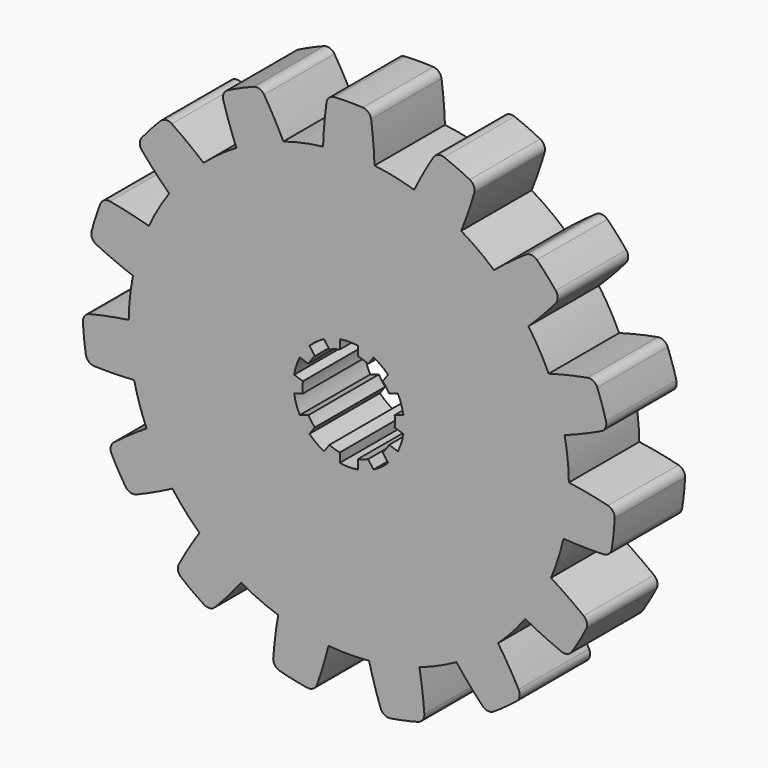
from build123d import *

# Parameters (mm, degrees)
F1_DEPTH = 20
F3_DEPTH = 20
F4_R     = 2


with BuildPart() as f1:
    # F0 (on Front) → F1 (new body)
    with BuildSketch(Plane.XZ):
        with BuildLine():
            ThreePointArc((48.774276, -11.003181), (49.692624, -5.535621), (50, 0))
            ThreePointArc((50, 0), (49.999033, 0.311003), (49.996131, 0.621993))
            ThreePointArc((49.996131, 0.621993), (49.726095, 5.226423), (49.032915, 9.786379))
            ThreePointArc((49.032915, 9.786379), (47.552826, 15.45085), (45.420751, 20.903478))
            ThreePointArc((45.420751, 20.903478), (43.30127, 25), (40.813318, 28.883785))
            ThreePointArc((40.813318, 28.883785), (37.157241, 33.45653), (32.991711, 37.570561))
            ThreePointArc((32.991711, 37.570561), (29.389263, 40.45085), (25.536727, 42.986923))
            ThreePointArc((25.536727, 42.986923), (20.336832, 45.677273), (14.858104, 47.741353))
            ThreePointArc((14.858104, 47.741353), (10.395585, 48.90738), (5.844605, 49.657231))
            ThreePointArc((5.844605, 49.657231), (0, 50), (-5.844605, 49.657231))
            ThreePointArc((-5.844605, 49.657231), (-10.395585, 48.90738), (-14.858104, 47.741353))
            ThreePointArc((-14.858104, 47.741353), (-20.336832, 45.677273), (-25.536727, 42.986923))
            ThreePointArc((-25.536727, 42.986923), (-29.389263, 40.45085), (-32.991711, 37.570561))
            ThreePointArc((-32.991711, 37.570561), (-37.157241, 33.45653), (-40.813318, 28.883785))
            ThreePointArc((-40.813318, 28.883785), (-43.30127, 25), (-45.420751, 20.903478))
            ThreePointArc((-45.420751, 20.903478), (-47.552826, 15.45085), (-49.032915, 9.786379))
            ThreePointArc((-49.032915, 9.786379), (-49.726095, 5.226423), (-49.996131, 0.621993))
            ThreePointArc((-49.996131, 0.621993), (-49.726095, -5.226423), (-48.774276, -11.003181))
            ThreePointArc((-48.774276, -11.003181), (-47.552826, -15.45085), (-45.926726, -19.767039))
            ThreePointArc((-45.926726, -19.767039), (-43.30127, -25), (-40.082121, -29.890192))
            ThreePointArc((-40.082121, -29.890192), (-37.157241, -33.45653), (-33.916173, -36.738171))
            ThreePointArc((-33.916173, -36.738171), (-29.389263, -40.45085), (-24.459404, -43.608916))
            ThreePointArc((-24.459404, -43.608916), (-20.336832, -45.677273), (-16.041205, -47.35694))
            ThreePointArc((-16.041205, -47.35694), (-10.395585, -48.90738), (-4.607433, -49.787263))
            ThreePointArc((-4.607433, -49.787263), (0, -50), (4.607433, -49.787263))
            ThreePointArc((4.607433, -49.787263), (10.395585, -48.90738), (16.041205, -47.35694))
            ThreePointArc((16.041205, -47.35694), (20.336832, -45.677273), (24.459404, -43.608916))
            ThreePointArc((24.459404, -43.608916), (29.389263, -40.45085), (33.916173, -36.738171))
            ThreePointArc((33.916173, -36.738171), (37.157241, -33.45653), (40.082121, -29.890192))
            ThreePointArc((40.082121, -29.890192), (43.30127, -25), (45.926726, -19.767039))
            ThreePointArc((45.926726, -19.767039), (47.552826, -15.45085), (48.774276, -11.003181))
        make_face()
        with BuildLine():
            ThreePointArc((-25.536727, 42.986923), (-20.336832, 45.677273), (-14.858104, 47.741353))
            ThreePointArc((-14.858104, 47.741353), (-17.342451, 52.471091), (-20.10306, 57.045088))
            ThreePointArc((-20.10306, 57.045088), (-24.600927, 55.254588), (-28.94119, 53.110099))
            ThreePointArc((-28.94119, 53.110099), (-27.389256, 47.997966), (-25.536727, 42.986923))
        make_face()
        with BuildLine():
            ThreePointArc((-5.844605, 49.657231), (0, 50), (5.844605, 49.657231))
            ThreePointArc((5.844605, 49.657231), (5.498799, 54.988537), (4.837269, 60.289932))
            ThreePointArc((4.837269, 60.289932), (0, 60.483676), (-4.837269, 60.289932))
            ThreePointArc((-4.837269, 60.289932), (-5.498799, 54.988537), (-5.844605, 49.657231))
        make_face()
        with BuildLine():
            ThreePointArc((14.858104, 47.741353), (20.336832, 45.677273), (25.536727, 42.986923))
            ThreePointArc((25.536727, 42.986923), (27.389256, 47.997966), (28.94119, 53.110099))
            ThreePointArc((28.94119, 53.110099), (24.600927, 55.254588), (20.10306, 57.045088))
            ThreePointArc((20.10306, 57.045088), (17.342451, 52.471091), (14.858104, 47.741353))
        make_face()
        with BuildLine():
            ThreePointArc((32.991711, 37.570561), (37.157241, 33.45653), (40.813318, 28.883785))
            ThreePointArc((40.813318, 28.883785), (44.543862, 32.70811), (48.040916, 36.747048))
            ThreePointArc((48.040916, 36.747048), (44.948131, 40.471479), (41.567387, 43.93663))
            ThreePointArc((41.567387, 43.93663), (37.185032, 40.880917), (32.991711, 37.570561))
        make_face()
        with BuildLine():
            ThreePointArc((45.420751, 20.903478), (47.552826, 15.45085), (49.032915, 9.786379))
            ThreePointArc((49.032915, 9.786379), (53.996429, 11.762724), (58.833931, 14.030098))
            ThreePointArc((58.833931, 14.030098), (57.523394, 18.690484), (55.844335, 23.23113))
            ThreePointArc((55.844335, 23.23113), (50.597985, 22.222061), (45.420751, 20.903478))
        make_face()
        with BuildLine():
            ThreePointArc((49.996131, 0.621993), (49.999033, 0.311003), (50, 0))
            ThreePointArc((50, 0), (49.692624, -5.535621), (48.774276, -11.003181))
            ThreePointArc((48.774276, -11.003181), (54.112523, -11.216543), (59.454025, -11.112784))
            ThreePointArc((59.454025, -11.112784), (60.15234, -6.322266), (60.46529, -1.491244))
            ThreePointArc((60.46529, -1.491244), (55.262085, -0.279192), (49.996131, 0.621993))
        make_face()
        with BuildLine():
            ThreePointArc((54.631247, -25.955768), (50.37087, -22.732169), (45.926726, -19.767039))
            ThreePointArc((45.926726, -19.767039), (43.30127, -25), (40.082121, -29.890192))
            ThreePointArc((40.082121, -29.890192), (44.872071, -32.256368), (49.793979, -34.334164))
            ThreePointArc((49.793979, -34.334164), (52.3804, -30.241838), (54.631247, -25.955768))
        make_face()
        with BuildLine():
            ThreePointArc((39.350966, -45.932305), (36.770073, -41.254548), (33.916173, -36.738171))
            ThreePointArc((33.916173, -36.738171), (29.389263, -40.45085), (24.459404, -43.608916))
            ThreePointArc((24.459404, -43.608916), (27.87283, -47.718774), (31.5241, -51.618855))
            ThreePointArc((31.5241, -51.618855), (35.551413, -48.932322), (39.350966, -45.932305))
        make_face()
        with BuildLine():
            ThreePointArc((17.266545, -57.966728), (16.811397, -52.643641), (16.041205, -47.35694))
            ThreePointArc((16.041205, -47.35694), (10.395585, -48.90738), (4.607433, -49.787263))
            ThreePointArc((4.607433, -49.787263), (6.054123, -54.93017), (7.803419, -59.978177))
            ThreePointArc((7.803419, -59.978177), (12.575263, -59.161963), (17.266545, -57.966728))
        make_face()
        with BuildLine():
            ThreePointArc((-7.803419, -59.978177), (-6.054123, -54.93017), (-4.607433, -49.787263))
            ThreePointArc((-4.607433, -49.787263), (-10.395585, -48.90738), (-16.041205, -47.35694))
            ThreePointArc((-16.041205, -47.35694), (-16.811397, -52.643641), (-17.266545, -57.966728))
            ThreePointArc((-17.266545, -57.966728), (-12.575263, -59.161963), (-7.803419, -59.978177))
        make_face()
        with BuildLine():
            ThreePointArc((-31.5241, -51.618855), (-27.87283, -47.718774), (-24.459404, -43.608916))
            ThreePointArc((-24.459404, -43.608916), (-29.389263, -40.45085), (-33.916173, -36.738171))
            ThreePointArc((-33.916173, -36.738171), (-36.770073, -41.254548), (-39.350966, -45.932305))
            ThreePointArc((-39.350966, -45.932305), (-35.551413, -48.932322), (-31.5241, -51.618855))
        make_face()
        with BuildLine():
            ThreePointArc((-49.793979, -34.334164), (-44.872071, -32.256368), (-40.082121, -29.890192))
            ThreePointArc((-40.082121, -29.890192), (-43.30127, -25), (-45.926726, -19.767039))
            ThreePointArc((-45.926726, -19.767039), (-50.37087, -22.732169), (-54.631247, -25.955768))
            ThreePointArc((-54.631247, -25.955768), (-52.3804, -30.241838), (-49.793979, -34.334164))
        make_face()
        with BuildLine():
            ThreePointArc((-59.454025, -11.112784), (-54.112523, -11.216543), (-48.774276, -11.003181))
            ThreePointArc((-48.774276, -11.003181), (-49.726095, -5.226423), (-49.996131, 0.621993))
            ThreePointArc((-49.996131, 0.621993), (-55.262085, -0.279192), (-60.46529, -1.491244))
            ThreePointArc((-60.46529, -1.491244), (-60.15234, -6.322266), (-59.454025, -11.112784))
        make_face()
        with BuildLine():
            ThreePointArc((-49.032915, 9.786379), (-47.552826, 15.45085), (-45.420751, 20.903478))
            ThreePointArc((-45.420751, 20.903478), (-50.597985, 22.222061), (-55.844335, 23.23113))
            ThreePointArc((-55.844335, 23.23113), (-57.523394, 18.690484), (-58.833931, 14.030098))
            ThreePointArc((-58.833931, 14.030098), (-53.996429, 11.762724), (-49.032915, 9.786379))
        make_face()
        with BuildLine():
            ThreePointArc((-40.813318, 28.883785), (-37.157241, 33.45653), (-32.991711, 37.570561))
            ThreePointArc((-32.991711, 37.570561), (-37.185032, 40.880917), (-41.567387, 43.93663))
            ThreePointArc((-41.567387, 43.93663), (-44.948131, 40.471479), (-48.040916, 36.747048))
            ThreePointArc((-48.040916, 36.747048), (-44.543862, 32.70811), (-40.813318, 28.883785))
        make_face()
    extrude(amount=F1_DEPTH)

    # F2 (on face) → F3 (cut)
    with BuildSketch(Plane.XZ.offset(20)):
        with BuildLine():
            ThreePointArc((10.427405, -1.232572), (10.481835, -0.617354), (10.5, 0))
            ThreePointArc((10.5, 0), (10.481835, 0.617354), (10.427405, 1.232572))
            ThreePointArc((10.427405, 1.232572), (9.986093, 3.244678), (9.160435, 5.131903))
            ThreePointArc((9.160435, 5.131903), (8.494678, 6.171745), (7.71146, 7.126246))
            ThreePointArc((7.71146, 7.126246), (6.171745, 8.494678), (4.39449, 9.536166))
            ThreePointArc((4.39449, 9.536166), (3.244678, 9.986093), (2.05, 10.297937))
            ThreePointArc((2.05, 10.297937), (0, 10.5), (-2.05, 10.297937))
            ThreePointArc((-2.05, 10.297937), (-3.244678, 9.986093), (-4.39449, 9.536166))
            ThreePointArc((-4.39449, 9.536166), (-6.171745, 8.494678), (-7.71146, 7.126246))
            ThreePointArc((-7.71146, 7.126246), (-8.494678, 6.171745), (-9.160435, 5.131903))
            ThreePointArc((-9.160435, 5.131903), (-9.986093, 3.244678), (-10.427405, 1.232572))
            ThreePointArc((-10.427405, 1.232572), (-10.5, 0), (-10.427405, -1.232572))
            ThreePointArc((-10.427405, -1.232572), (-9.986093, -3.244678), (-9.160435, -5.131903))
            ThreePointArc((-9.160435, -5.131903), (-8.494678, -6.171745), (-7.71146, -7.126246))
            ThreePointArc((-7.71146, -7.126246), (-6.171745, -8.494678), (-4.39449, -9.536166))
            ThreePointArc((-4.39449, -9.536166), (-3.244678, -9.986093), (-2.05, -10.297937))
            ThreePointArc((-2.05, -10.297937), (0, -10.5), (2.05, -10.297937))
            ThreePointArc((2.05, -10.297937), (3.244678, -9.986093), (4.39449, -9.536166))
            ThreePointArc((4.39449, -9.536166), (6.171745, -8.494678), (7.71146, -7.126246))
            ThreePointArc((7.71146, -7.126246), (8.494678, -6.171745), (9.160435, -5.131903))
            ThreePointArc((9.160435, -5.131903), (9.986093, -3.244678), (10.427405, -1.232572))
        make_face()
        with BuildLine():
            ThreePointArc((-7.71146, 7.126246), (-6.171745, 8.494678), (-4.39449, 9.536166))
            Line((-4.39449, 9.536166), (-5.619142, 11.221753))
            ThreePointArc((-5.619142, 11.221753), (-7.376705, 10.153163), (-8.936111, 8.811834))
            Line((-8.936111, 8.811834), (-7.71146, 7.126246))
        make_face()
        with BuildLine():
            ThreePointArc((-2.05, 10.297937), (0, 10.5), (2.05, 10.297937))
            Line((2.05, 10.297937), (2.05, 12.381438))
            ThreePointArc((2.05, 12.381438), (0, 12.55), (-2.05, 12.381438))
            Line((-2.05, 12.381438), (-2.05, 10.297937))
        make_face()
        with BuildLine():
            ThreePointArc((4.39449, 9.536166), (6.171745, 8.494678), (7.71146, 7.126246))
            Line((7.71146, 7.126246), (8.936111, 8.811834))
            ThreePointArc((8.936111, 8.811834), (7.376705, 10.153163), (5.619142, 11.221753))
            Line((5.619142, 11.221753), (4.39449, 9.536166))
        make_face()
        with BuildLine():
            ThreePointArc((-10.427405, 1.232572), (-9.986093, 3.244678), (-9.160435, 5.131903))
            Line((-9.160435, 5.131903), (-11.141962, 5.775741))
            ThreePointArc((-11.141962, 5.775741), (-11.935759, 3.878163), (-12.408932, 1.876409))
            Line((-12.408932, 1.876409), (-10.427405, 1.232572))
        make_face()
        with BuildLine():
            Line((-11.141962, -5.775741), (-9.160435, -5.131903))
            ThreePointArc((-9.160435, -5.131903), (-9.986093, -3.244678), (-10.427405, -1.232572))
            Line((-10.427405, -1.232572), (-12.408932, -1.876409))
            ThreePointArc((-12.408932, -1.876409), (-11.935759, -3.878163), (-11.141962, -5.775741))
        make_face()
        with BuildLine():
            Line((-5.619142, -11.221753), (-4.39449, -9.536166))
            ThreePointArc((-4.39449, -9.536166), (-6.171745, -8.494678), (-7.71146, -7.126246))
            Line((-7.71146, -7.126246), (-8.936111, -8.811834))
            ThreePointArc((-8.936111, -8.811834), (-7.376705, -10.153163), (-5.619142, -11.221753))
        make_face()
        with BuildLine():
            Line((2.05, -12.381438), (2.05, -10.297937))
            ThreePointArc((2.05, -10.297937), (0, -10.5), (-2.05, -10.297937))
            Line((-2.05, -10.297937), (-2.05, -12.381438))
            ThreePointArc((-2.05, -12.381438), (0, -12.55), (2.05, -12.381438))
        make_face()
        with BuildLine():
            Line((8.936111, -8.811834), (7.71146, -7.126246))
            ThreePointArc((7.71146, -7.126246), (6.171745, -8.494678), (4.39449, -9.536166))
            Line((4.39449, -9.536166), (5.619142, -11.221753))
            ThreePointArc((5.619142, -11.221753), (7.376705, -10.153163), (8.936111, -8.811834))
        make_face()
        with BuildLine():
            Line((12.408932, -1.876409), (10.427405, -1.232572))
            ThreePointArc((10.427405, -1.232572), (9.986093, -3.244678), (9.160435, -5.131903))
            Line((9.160435, -5.131903), (11.141962, -5.775741))
            ThreePointArc((11.141962, -5.775741), (11.935759, -3.878163), (12.408932, -1.876409))
        make_face()
        with BuildLine():
            ThreePointArc((9.160435, 5.131903), (9.986093, 3.244678), (10.427405, 1.232572))
            Line((10.427405, 1.232572), (12.408932, 1.876409))
            ThreePointArc((12.408932, 1.876409), (11.935759, 3.878163), (11.141962, 5.775741))
            Line((11.141962, 5.775741), (9.160435, 5.131903))
        make_face()
    extrude(amount=-F3_DEPTH, mode=Mode.SUBTRACT)

    # F4
    f4_edges = [f1.edges().sort_by_distance(p)[0] for p in [
        (-20.10306, -10, 57.045088),
        (-4.837269, -10, 60.289932),
        (20.10306, -10, 57.045088),
        (4.837269, -10, 60.289932),
        (28.94119, -10, 53.110099),
        (41.567387, -10, 43.93663),
        (48.040916, -10, 36.747048),
        (55.844335, -10, 23.23113),
        (60.46529, -10, -1.491244),
        (59.454025, -10, -11.112784),
        (54.631247, -10, -25.955768),
        (49.793979, -10, -34.334164),
        (39.350966, -10, -45.932305),
        (31.5241, -10, -51.618855),
        (17.266545, -10, -57.966728),
        (-31.5241, -10, -51.618855),
        (-17.266545, -10, -57.966728),
        (7.803419, -10, -59.978177),
        (-7.803419, -10, -59.978177),
        (58.833931, -10, 14.030098),
        (-39.350966, -10, -45.932305),
        (-49.793979, -10, -34.334164),
        (-54.631247, -10, -25.955768),
        (-59.454025, -10, -11.112784),
        (-58.833931, -10, 14.030098),
        (-55.844335, -10, 23.23113),
        (-60.46529, -10, -1.491244),
        (-48.040916, -10, 36.747048),
        (-28.94119, -10, 53.110099),
        (-41.567387, -10, 43.93663),
    ]]
    fillet(f4_edges, radius=F4_R)


solid = f1.part
